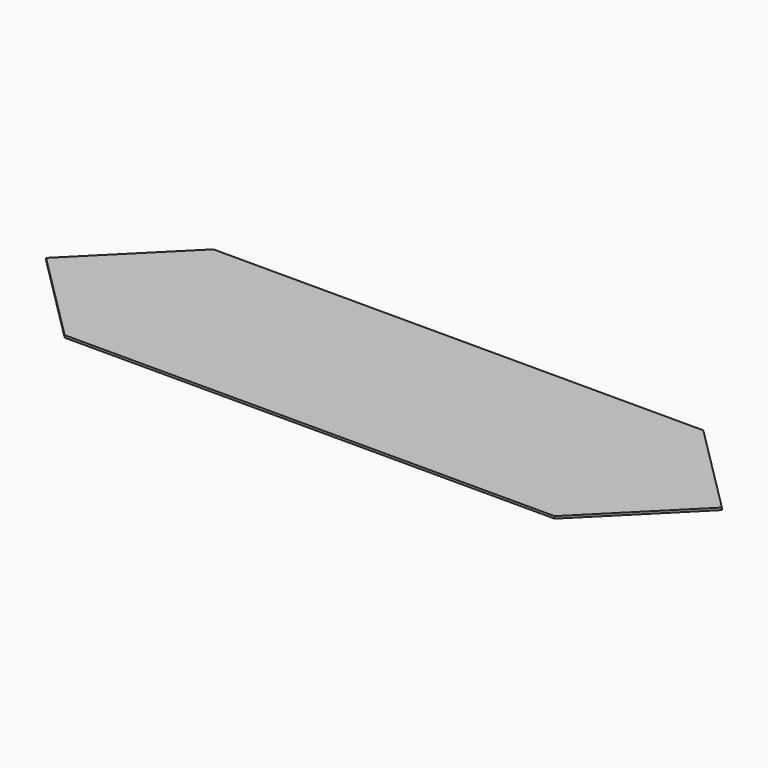
from build123d import *

# Parameters (mm, degrees)
PAD_DEPTH = 0.2


with BuildPart() as part:
    # Sketch → Pad (new body)
    with BuildSketch(Plane.XY):
        Polygon((-21.75, 8.25), (21.75, 8.25), (30, 0), (21.75, -8.25), (-21.75, -8.25), (-30, 0), align=None)
    extrude(amount=PAD_DEPTH)


solid = part.part
